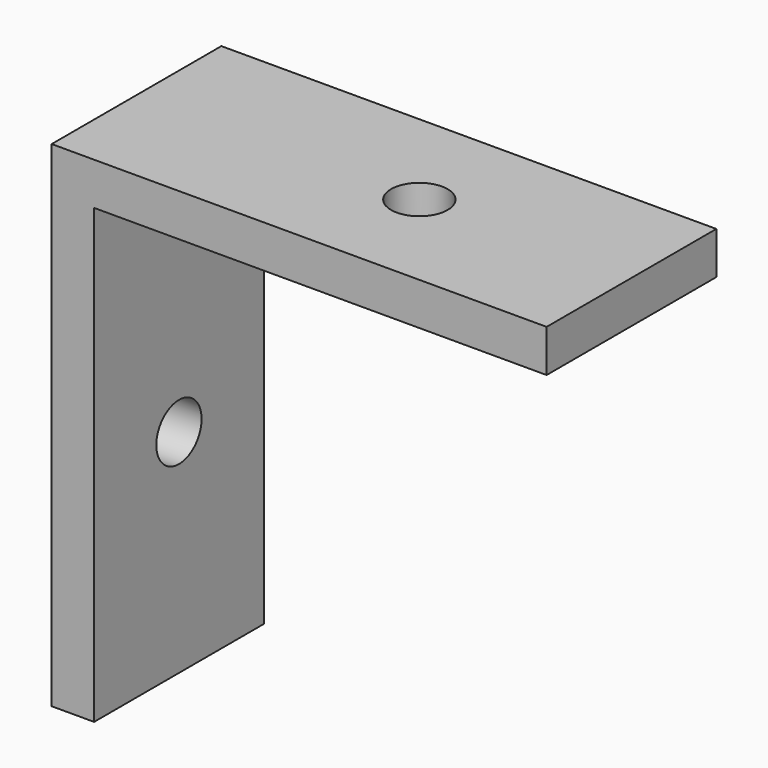
from build123d import *

# Parameters (mm, degrees)
F0_W     = 3
F0_H     = 3
F0_W_2   = 32
F0_H_2   = 32
F1_DEPTH = 7.5
F2_R     = 2
F3_DEPTH = 3.001
F4_R     = 2
F5_DEPTH = 35.001


with BuildPart() as f1:
    # F0 (on Front) → F1 (new body, symmetric)
    with BuildSketch(Plane.XZ):
        with Locations((-1.5, -1.5)):
            Rectangle(F0_W, F0_H)
        with Locations((16, -1.5)):
            Rectangle(F0_W_2, F0_H)
        with Locations((-1.5, -19)):
            Rectangle(F0_W, F0_H_2)
    extrude(amount=F1_DEPTH, both=True)

    # F2 (on face) → F3 (cut, through all)
    with BuildSketch(Plane.YZ):
        with Locations((0, -20)):
            Circle(F2_R)
    extrude(amount=-F3_DEPTH, mode=Mode.SUBTRACT)

    # F4 (on face) → F5 (cut, through all)
    with BuildSketch(Plane.XY):
        with Locations((17, 0)):
            Circle(F4_R)
    extrude(amount=-F5_DEPTH, mode=Mode.SUBTRACT)


solid = f1.part
